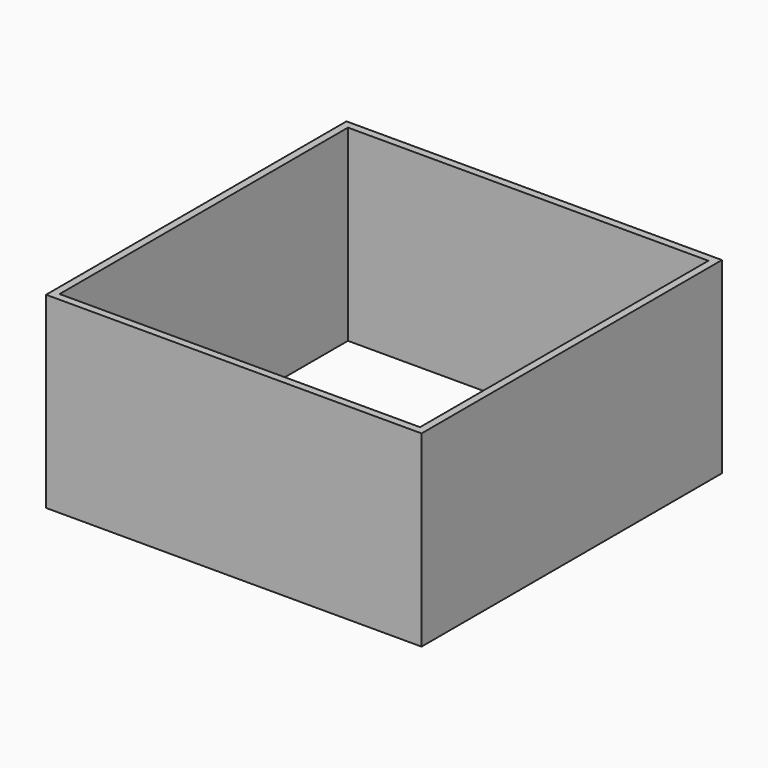
from build123d import *

# Parameters (mm, degrees)
F0_W     = 20
F0_H     = 20
F1_DEPTH = 10
F2_T     = -0.4


with BuildPart() as f1:
    # F0 (on Top) → F1 (new body)
    with BuildSketch(Plane.XY):
        Rectangle(F0_W, F0_H)
    extrude(amount=F1_DEPTH)

    # F2
    f2_openings = [f1.faces().sort_by_distance(p)[0] for p in [
        (0, 0, 10),
        (0, 0, 0),
    ]]
    offset(amount=F2_T, openings=f2_openings)


solid = f1.part
